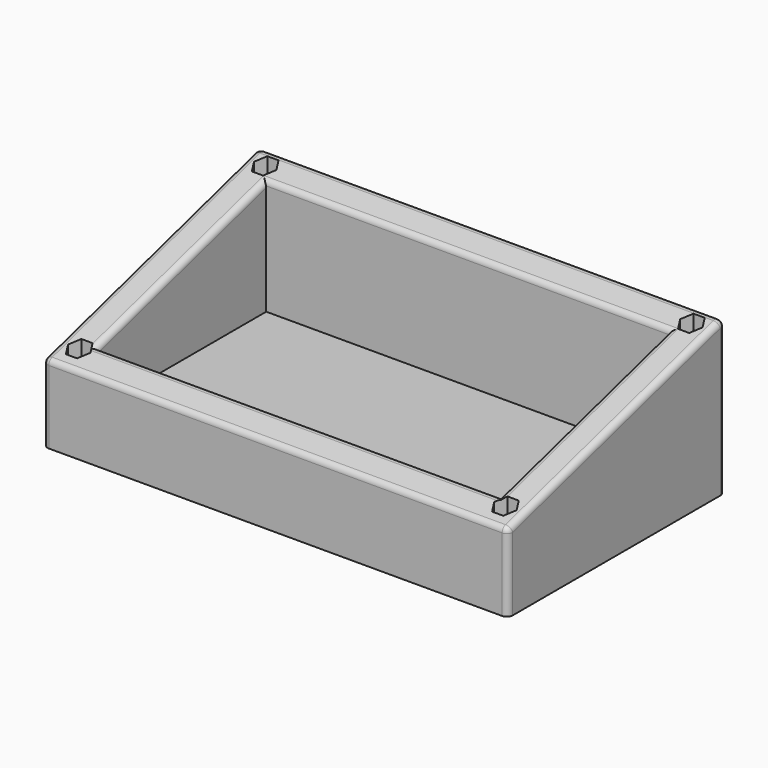
from build123d import *

# Parameters (mm, degrees)
F0_W      = 120
F0_H      = 70
F1_DEPTH  = 40
F3_DEPTH  = 120.001
F4_T      = -8
F5_R      = 1.5
F8_DEPTH  = 35
F9_R      = 1.5
F10_DEPTH = 40.001
F12_DEPTH = 25


with BuildPart() as f1:
    # F0 (on Top) → F1 (new body)
    with BuildSketch(Plane.XY):
        with Locations((10.593040958, 9.0129598636)):
            Rectangle(F0_W, F0_H)
    extrude(amount=F1_DEPTH)

    # F2 (on face) → F3 (cut, through all)
    with BuildSketch(Plane(origin=(-49.406959042, 0, 0), x_dir=(0, -1, 0), z_dir=(-1, 0, 0))):
        Polygon((25.9870401364, 40), (-44.0129598636, 40), (25.9870401364, 20), align=None)
    extrude(amount=-F3_DEPTH, mode=Mode.SUBTRACT)

    # F4
    f4_openings = [f1.faces().sort_by_distance(p)[0] for p in [
        (10.593041, 9.01296, 30),
    ]]
    offset(amount=F4_T, openings=f4_openings)

    # F5
    f5_edges = [f1.edges().sort_by_distance(p)[0] for p in [
        (-49.406959, -25.98704, 10),
        (-49.406959, 44.01296, 20),
        (70.593041, 44.01296, 20),
        (70.593041, -25.98704, 10),
        (10.593041, 44.01296, 40),
        (70.593041, 9.01296, 30),
        (10.593041, -25.98704, 20),
        (-49.406959, 9.01296, 30),
        (10.593041, -17.98704, 22.285714),
        (62.593041, 9.01296, 30),
        (10.593041, 36.01296, 37.714286),
        (-41.406959, 9.01296, 30),
    ]]
    fillet(f5_edges, radius=F5_R)

    # F7 (on offset) → F8 (cut)
    with BuildSketch(Plane.XY.offset(40)):
        Polygon((-43.0277708034, 37.0129598636), (-41.5843951305, 39.5129598636), (-43.0277708034, 42.0129598636), (-45.9145221494, 42.0129598636), (-47.3578978224, 39.5129598636), (-45.9145221494, 37.0129598636), align=None)
        Polygon((66.9722291966, 37.0129598636), (68.4156048695, 39.5129598636), (66.9722291966, 42.0129598636), (64.0854778506, 42.0129598636), (62.6421021776, 39.5129598636), (64.0854778506, 37.0129598636), align=None)
        Polygon((-43.0277708034, -22.9870401364), (-41.5843951305, -20.4870401364), (-43.0277708034, -17.9870401364), (-45.9145221494, -17.9870401364), (-47.3578978224, -20.4870401364), (-45.9145221494, -22.9870401364), align=None)
        Polygon((66.9722291966, -22.9870401364), (68.4156048695, -20.4870401364), (66.9722291966, -17.9870401364), (64.0854778506, -17.9870401364), (62.6421021776, -20.4870401364), (64.0854778506, -22.9870401364), align=None)
    extrude(amount=-F8_DEPTH, mode=Mode.SUBTRACT)

    # F9 (on offset) → F10 (cut, through all)
    with BuildSketch(Plane.XY.offset(40)):
        with Locations((-44.5364899848, 39.5145639777)):
            Circle(F9_R)
        with Locations((65.4635100152, 39.5145639777)):
            Circle(F9_R)
        with Locations((65.4635100152, -20.4854360223)):
            Circle(F9_R)
        with Locations((-44.5364899848, -20.4854360223)):
            Circle(F9_R)
    extrude(amount=-F10_DEPTH, mode=Mode.SUBTRACT)

    # F11 (on face) → F12 (cut)
    with BuildSketch(Plane.XY.offset(8)):
        with BuildLine():
            Line((62.593040958, 5.5129598636), (62.593040958, 12.5129598636))
            ThreePointArc((62.593040958, 12.5129598636), (59.093040958, 9.0129598636), (62.593040958, 5.5129598636))
        make_face()
    extrude(amount=-F12_DEPTH, mode=Mode.SUBTRACT)


solid = f1.part
